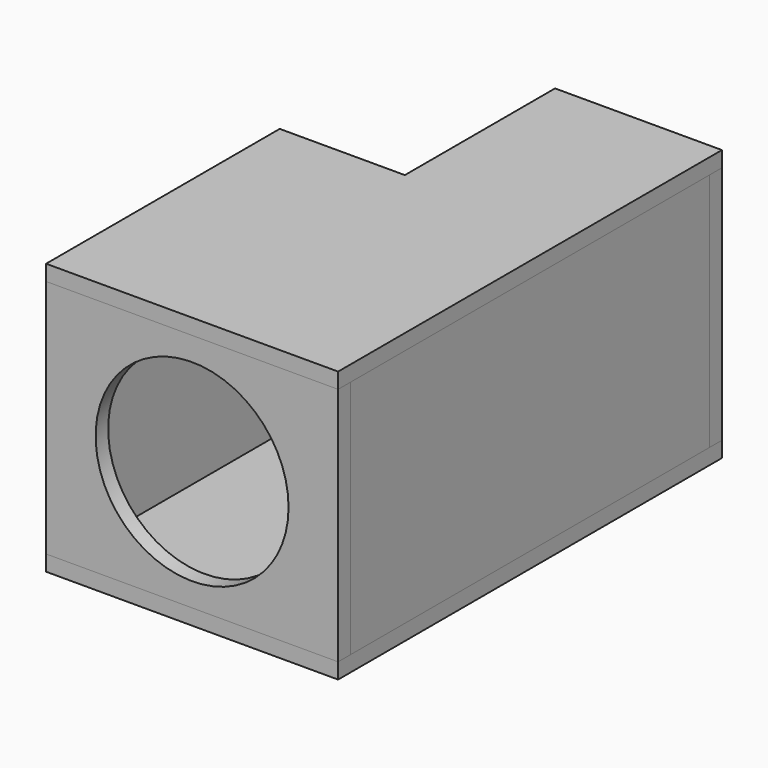
from build123d import *

# Parameters (mm, degrees)
F1_DEPTH  = 19.05
F2_W      = 355.6
F2_H      = 19.05
F3_DEPTH  = 292.1
F4_W      = 203.2
F4_H      = 19.05
F5_DEPTH  = 292.1
F6_W      = 19.05
F6_H      = 546.1
F7_DEPTH  = 292.1
F8_W      = 19.05
F8_H      = 336.55
F9_DEPTH  = 292.1
F10_W     = 19.05
F10_H     = 209.55
F11_DEPTH = 292.1
F12_W     = 152.4
F12_H     = 19.05
F13_DEPTH = 292.1
F15_DEPTH = 19.05
F16_R     = 117.475
F17_DEPTH = 584.201
F18_R     = 44.45
F19_DEPTH = 584.201
F20_R     = 44.45
F20_R_2   = 38.9636
F21_DEPTH = 330.2


with BuildPart() as f1:
    # F0 (on Top) → F1 (new body)
    with BuildSketch(Plane.XY):
        Polygon((-355.6, 0), (0, 0), (0, 584.2), (-203.2, 584.2), (-203.2, 355.6), (-355.6, 355.6), align=None)
    extrude(amount=F1_DEPTH)


with BuildPart() as f3:
    # F2 (on face) → F3 (new body)
    with BuildSketch(Plane.XY.offset(19.05)):
        with Locations((-177.8, 9.525)):
            Rectangle(F2_W, F2_H)
    extrude(amount=F3_DEPTH)

    # F16 (on face) → F17 (cut, through all)
    with BuildSketch(Plane.XZ):
        with Locations((-177.8, 165.1)):
            Circle(F16_R)
    extrude(amount=-F17_DEPTH, mode=Mode.SUBTRACT)


with BuildPart() as f5:
    # F4 (on face) → F5 (new body, through all)
    with BuildSketch(Plane.XY.offset(19.05)):
        with Locations((-101.6, 574.675)):
            Rectangle(F4_W, F4_H)
    extrude(amount=F5_DEPTH)

    # F18 (on face) → F19 (cut, through all)
    with BuildSketch(Plane(origin=(0, 584.2, 0), x_dir=(-1, 0, 0), z_dir=(0, 1, 0))):
        with Locations((101.6, 165.1)):
            Circle(F18_R)
    extrude(amount=-F19_DEPTH, mode=Mode.SUBTRACT)


with BuildPart() as f7:
    # F6 (on face) → F7 (new body, through all)
    with BuildSketch(Plane.XY.offset(19.05)):
        with Locations((-9.525, 292.1)):
            Rectangle(F6_W, F6_H)
    extrude(amount=F7_DEPTH)


with BuildPart() as f9:
    # F8 (on face) → F9 (new body, through all)
    with BuildSketch(Plane.XY.offset(19.05)):
        with Locations((-346.075, 187.325)):
            Rectangle(F8_W, F8_H)
    extrude(amount=F9_DEPTH)


with BuildPart() as f11:
    # F10 (on face) → F11 (new body, through all)
    with BuildSketch(Plane.XY.offset(19.05)):
        with Locations((-193.675, 460.375)):
            Rectangle(F10_W, F10_H)
    extrude(amount=F11_DEPTH)


with BuildPart() as f13:
    # F12 (on face) → F13 (new body, through all)
    with BuildSketch(Plane.XY.offset(19.05)):
        with Locations((-260.35, 346.075)):
            Rectangle(F12_W, F12_H)
    extrude(amount=F13_DEPTH)


with BuildPart() as f15:
    # F14 (on face) → F15 (new body)
    with BuildSketch(Plane.XY.offset(311.15)):
        Polygon((0, 0), (0, 584.2), (-203.2, 584.2), (-203.2, 355.6), (-355.6, 355.6), (-355.6, 0), align=None)
    extrude(amount=F15_DEPTH)


with BuildPart() as f21:
    # F20 (on face) → F21 (new body)
    with BuildSketch(Plane(origin=(0, 584.2, 0), x_dir=(-1, 0, 0), z_dir=(0, 1, 0))):
        with Locations((101.6, 165.1)):
            Circle(F20_R)
        with Locations((101.6, 165.1)):
            Circle(F20_R_2, mode=Mode.SUBTRACT)
    extrude(amount=-F21_DEPTH)


solid = Compound([f1.part, f3.part, f5.part, f7.part, f9.part, f11.part, f13.part, f15.part, f21.part])
